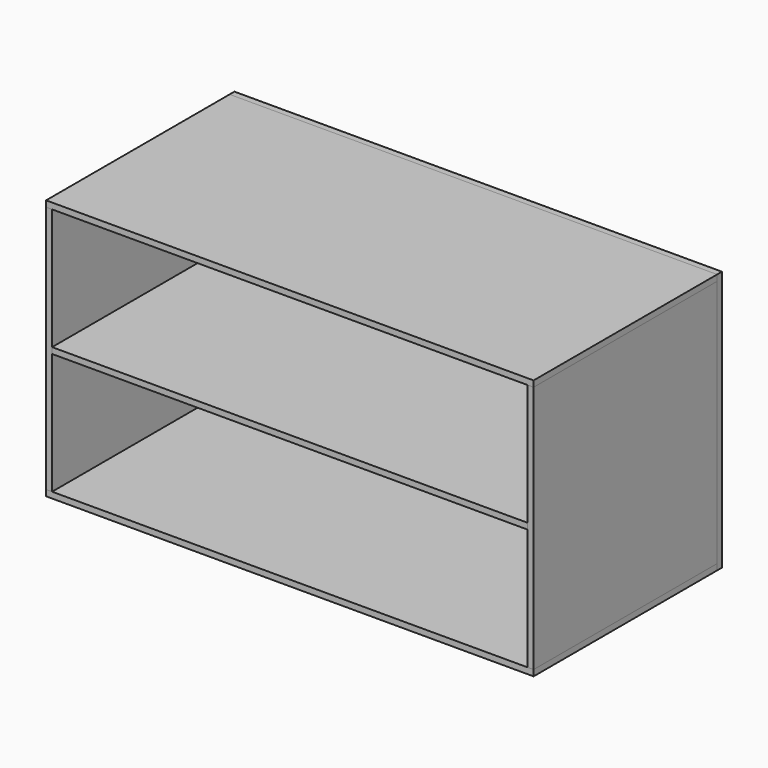
from build123d import *

# Parameters (mm, degrees)
F1_W      = 255
F1_H      = 120
F2_DEPTH  = 3.15
F3_W      = 120
F3_H      = 130
F4_DEPTH  = 3.15
F5_W      = 248.7
F5_H      = 3.15
F6_DEPTH  = 120
F9_W      = 255
F9_H      = 136.3
F10_DEPTH = 3.15


with BuildPart() as f2:
    # F1 (on Top) → F2 (new body)
    with BuildSketch(Plane.XY):
        with Locations((127.5, 60)):
            Rectangle(F1_W, F1_H)
    extrude(amount=F2_DEPTH)


with BuildPart() as f4:
    # F3 (on face) → F4 (new body)
    with BuildSketch(Plane(origin=(0, 0, 0), x_dir=(0, -1, 0), z_dir=(-1, 0, 0))):
        with Locations((-60, 68.15)):
            Rectangle(F3_W, F3_H)
    extrude(amount=-F4_DEPTH)


with BuildPart() as f6:
    # F5 (on face) → F6 (new body, through all)
    with BuildSketch(Plane.XZ):
        with Locations((127.5, 68.15)):
            Rectangle(F5_W, F5_H)
    extrude(amount=-F6_DEPTH)


with BuildPart() as f7_1:
    # F7: copy of F2
    add(f2.part.moved(Location((0, 0, 133.15))))


with BuildPart() as f8_1:
    # F8: copy of F4
    add(f4.part.moved(Location((251.85, 0, 0))))


with BuildPart() as f10:
    # F9 (on face) → F10 (new body)
    with BuildSketch(Plane(origin=(0, 120, 0), x_dir=(-1, 0, 0), z_dir=(0, 1, 0))):
        with Locations((-127.5, 68.15)):
            Rectangle(F9_W, F9_H)
    extrude(amount=F10_DEPTH)


solid = Compound([f2.part, f4.part, f6.part, f7_1.part, f8_1.part, f10.part])
